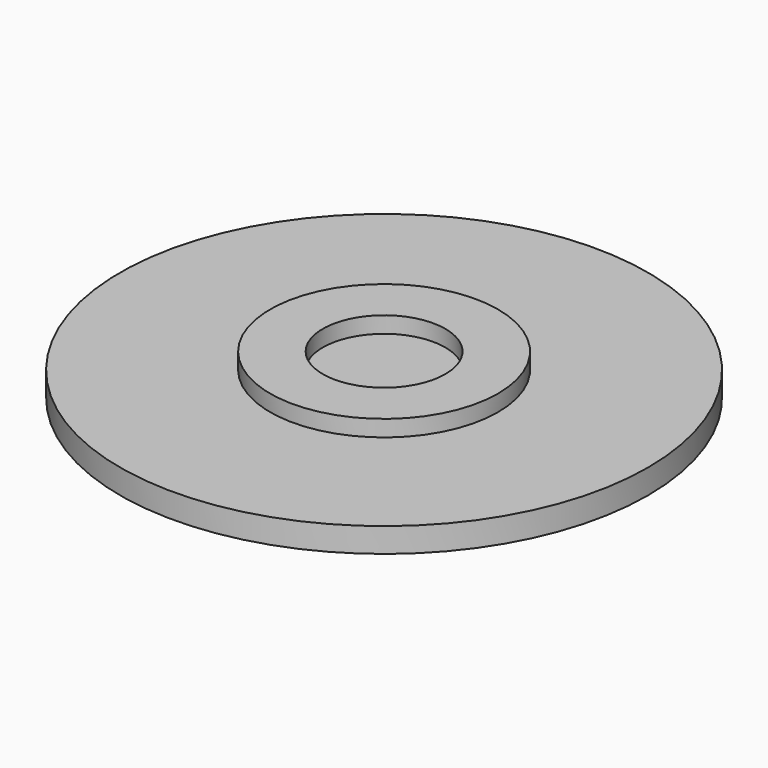
from build123d import *

# Parameters (mm, degrees)
F0_R     = 32.3
F1_DEPTH = 3
F2_R     = 13.95
F3_DEPTH = 5
F4_R     = 7.5
F5_DEPTH = 2


with BuildPart() as f1:
    # F0 (on Top) → F1 (new body)
    with BuildSketch(Plane.XY):
        Circle(F0_R)
    extrude(amount=F1_DEPTH)

    # F2 (on Top) → F3 (join)
    with BuildSketch(Plane.XY):
        Circle(F2_R)
    extrude(amount=F3_DEPTH)

    # F4 (on face) → F5 (cut)
    with BuildSketch(Plane.XY.offset(5)):
        Circle(F4_R)
    extrude(amount=-F5_DEPTH, mode=Mode.SUBTRACT)


solid = f1.part
